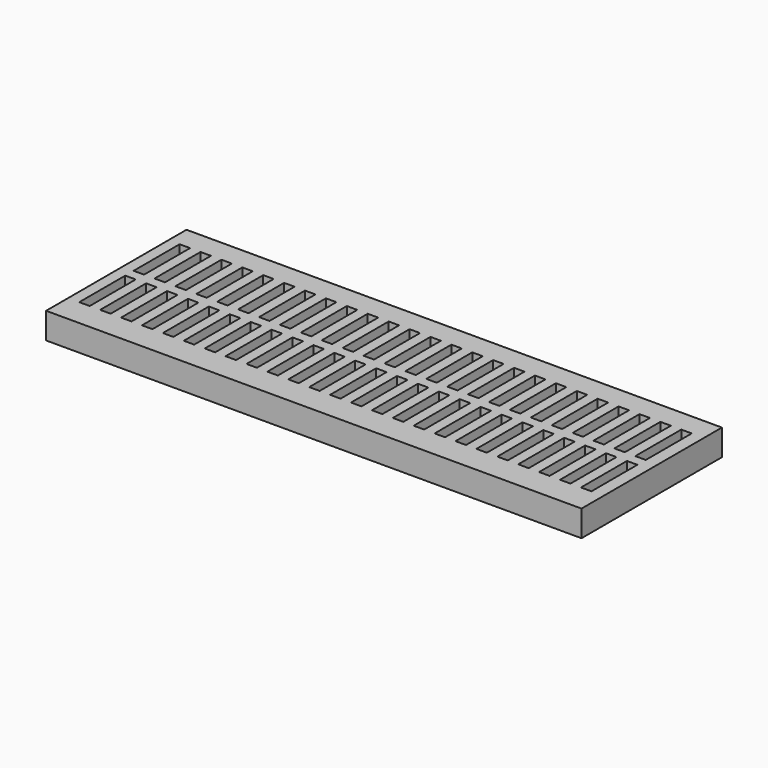
from build123d import *

# Parameters (mm, degrees)
F1_W     = 20.491264
F1_H     = 6.716872
F1_W_2   = 0.4
F1_H_2   = 2.2
F2_DEPTH = 1


with BuildPart() as f2:
    # F1 (on face) → F2 (new body)
    with BuildSketch(Plane.XY):
        with Locations((-6.865435, -5.054062)):
            Rectangle(F1_W, F1_H)
        with Locations((-16.485979, -6.256568)):
            Rectangle(F1_W_2, F1_H_2, mode=Mode.SUBTRACT)
        with Locations((-15.685979, -6.256568)):
            Rectangle(F1_W_2, F1_H_2, mode=Mode.SUBTRACT)
        with Locations((-14.885979, -6.256568)):
            Rectangle(F1_W_2, F1_H_2, mode=Mode.SUBTRACT)
        with Locations((-14.085979, -6.256568)):
            Rectangle(F1_W_2, F1_H_2, mode=Mode.SUBTRACT)
        with Locations((-13.285979, -6.256568)):
            Rectangle(F1_W_2, F1_H_2, mode=Mode.SUBTRACT)
        with Locations((-12.485979, -6.256568)):
            Rectangle(F1_W_2, F1_H_2, mode=Mode.SUBTRACT)
        with Locations((-11.685979, -6.256568)):
            Rectangle(F1_W_2, F1_H_2, mode=Mode.SUBTRACT)
        with Locations((-10.885979, -6.256568)):
            Rectangle(F1_W_2, F1_H_2, mode=Mode.SUBTRACT)
        with Locations((-10.085979, -6.256568)):
            Rectangle(F1_W_2, F1_H_2, mode=Mode.SUBTRACT)
        with Locations((-9.285979, -6.256568)):
            Rectangle(F1_W_2, F1_H_2, mode=Mode.SUBTRACT)
        with Locations((-8.485979, -6.256568)):
            Rectangle(F1_W_2, F1_H_2, mode=Mode.SUBTRACT)
        with Locations((-7.685979, -6.256568)):
            Rectangle(F1_W_2, F1_H_2, mode=Mode.SUBTRACT)
        with Locations((-6.885979, -6.256568)):
            Rectangle(F1_W_2, F1_H_2, mode=Mode.SUBTRACT)
        with Locations((-16.485979, -3.656568)):
            Rectangle(F1_W_2, F1_H_2, mode=Mode.SUBTRACT)
        with Locations((-15.685979, -3.656568)):
            Rectangle(F1_W_2, F1_H_2, mode=Mode.SUBTRACT)
        with Locations((-14.885979, -3.656568)):
            Rectangle(F1_W_2, F1_H_2, mode=Mode.SUBTRACT)
        with Locations((-14.085979, -3.656568)):
            Rectangle(F1_W_2, F1_H_2, mode=Mode.SUBTRACT)
        with Locations((-13.285979, -3.656568)):
            Rectangle(F1_W_2, F1_H_2, mode=Mode.SUBTRACT)
        with Locations((-12.485979, -3.656568)):
            Rectangle(F1_W_2, F1_H_2, mode=Mode.SUBTRACT)
        with Locations((-11.685979, -3.656568)):
            Rectangle(F1_W_2, F1_H_2, mode=Mode.SUBTRACT)
        with Locations((-10.885979, -3.656568)):
            Rectangle(F1_W_2, F1_H_2, mode=Mode.SUBTRACT)
        with Locations((-10.085979, -3.656568)):
            Rectangle(F1_W_2, F1_H_2, mode=Mode.SUBTRACT)
        with Locations((-9.285979, -3.656568)):
            Rectangle(F1_W_2, F1_H_2, mode=Mode.SUBTRACT)
        with Locations((-8.485979, -3.656568)):
            Rectangle(F1_W_2, F1_H_2, mode=Mode.SUBTRACT)
        with Locations((-7.685979, -3.656568)):
            Rectangle(F1_W_2, F1_H_2, mode=Mode.SUBTRACT)
        with Locations((-6.885979, -3.656568)):
            Rectangle(F1_W_2, F1_H_2, mode=Mode.SUBTRACT)
        with Locations((-6.085979, -6.256568)):
            Rectangle(F1_W_2, F1_H_2, mode=Mode.SUBTRACT)
        with Locations((-5.285979, -6.256568)):
            Rectangle(F1_W_2, F1_H_2, mode=Mode.SUBTRACT)
        with Locations((-4.485979, -6.256568)):
            Rectangle(F1_W_2, F1_H_2, mode=Mode.SUBTRACT)
        with Locations((-3.685979, -6.256568)):
            Rectangle(F1_W_2, F1_H_2, mode=Mode.SUBTRACT)
        with Locations((-2.885979, -6.256568)):
            Rectangle(F1_W_2, F1_H_2, mode=Mode.SUBTRACT)
        with Locations((-2.085979, -6.256568)):
            Rectangle(F1_W_2, F1_H_2, mode=Mode.SUBTRACT)
        with Locations((-1.285979, -6.256568)):
            Rectangle(F1_W_2, F1_H_2, mode=Mode.SUBTRACT)
        with Locations((-0.485979, -6.256568)):
            Rectangle(F1_W_2, F1_H_2, mode=Mode.SUBTRACT)
        with Locations((0.314021, -6.256568)):
            Rectangle(F1_W_2, F1_H_2, mode=Mode.SUBTRACT)
        with Locations((1.114021, -6.256568)):
            Rectangle(F1_W_2, F1_H_2, mode=Mode.SUBTRACT)
        with Locations((1.914021, -6.256568)):
            Rectangle(F1_W_2, F1_H_2, mode=Mode.SUBTRACT)
        with Locations((2.714021, -6.256568)):
            Rectangle(F1_W_2, F1_H_2, mode=Mode.SUBTRACT)
        with Locations((-6.085979, -3.656568)):
            Rectangle(F1_W_2, F1_H_2, mode=Mode.SUBTRACT)
        with Locations((-5.285979, -3.656568)):
            Rectangle(F1_W_2, F1_H_2, mode=Mode.SUBTRACT)
        with Locations((-4.485979, -3.656568)):
            Rectangle(F1_W_2, F1_H_2, mode=Mode.SUBTRACT)
        with Locations((-3.685979, -3.656568)):
            Rectangle(F1_W_2, F1_H_2, mode=Mode.SUBTRACT)
        with Locations((-2.885979, -3.656568)):
            Rectangle(F1_W_2, F1_H_2, mode=Mode.SUBTRACT)
        with Locations((-2.085979, -3.656568)):
            Rectangle(F1_W_2, F1_H_2, mode=Mode.SUBTRACT)
        with Locations((-1.285979, -3.656568)):
            Rectangle(F1_W_2, F1_H_2, mode=Mode.SUBTRACT)
        with Locations((-0.485979, -3.656568)):
            Rectangle(F1_W_2, F1_H_2, mode=Mode.SUBTRACT)
        with Locations((0.314021, -3.656568)):
            Rectangle(F1_W_2, F1_H_2, mode=Mode.SUBTRACT)
        with Locations((1.114021, -3.656568)):
            Rectangle(F1_W_2, F1_H_2, mode=Mode.SUBTRACT)
        with Locations((1.914021, -3.656568)):
            Rectangle(F1_W_2, F1_H_2, mode=Mode.SUBTRACT)
        with Locations((2.714021, -3.656568)):
            Rectangle(F1_W_2, F1_H_2, mode=Mode.SUBTRACT)
    extrude(amount=F2_DEPTH)


solid = f2.part
